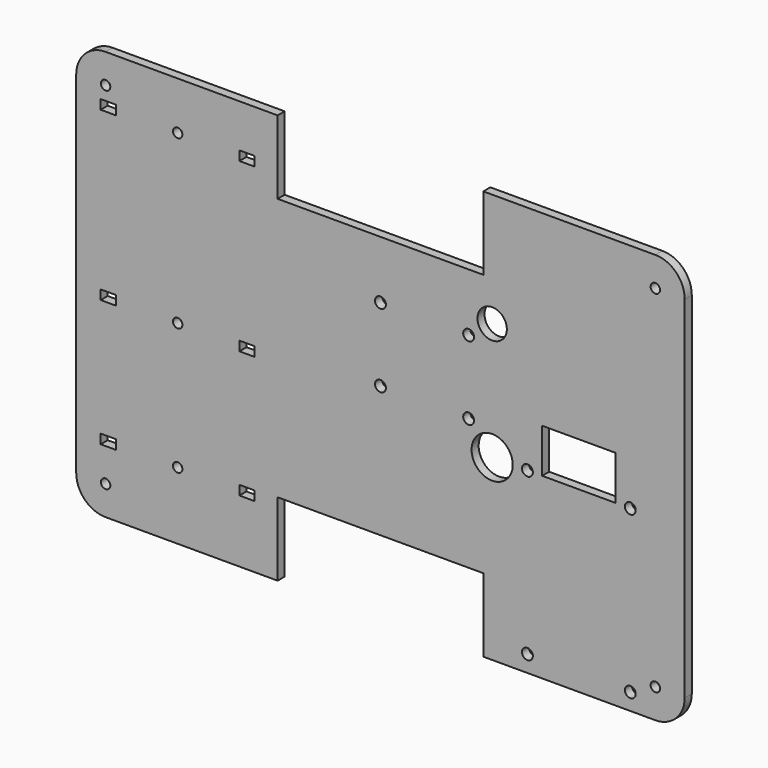
from build123d import *

# Parameters (mm, degrees)
SKETCH009_R             = 1.6
PAD006_DEPTH            = 3
SKETCH010_W             = 25
SKETCH010_H             = 70
POCKET003_DEPTH         = 3.001
SKETCH011_R             = 1.85
POCKET004_DEPTH         = 3.001
SKETCH012_R             = 1.6
SKETCH012_W             = 3.2
SKETCH012_H             = 5.2
POCKET005_DEPTH         = 3.001
SKETCH013_R             = 1.85
POCKET006_DEPTH         = 3.001
SKETCH017_R             = 7
SKETCH017_R_2           = 5
SKETCH017_W             = 15
SKETCH017_H             = 25
POCKET010_DEPTH         = 3.001
BODY003_PLACEMENT_ANGLE = 90


with BuildPart() as part:
    # Sketch009 → Pad006 (new body)
    with BuildSketch(Plane.XZ):
        with BuildLine():
            Line((-59.69, 103.52), (59.69, 103.52))
            ThreePointArc((69.69, 93.52), (66.761068, 100.591068), (59.69, 103.52))
            Line((69.69, 93.52), (69.69, -93.52))
            ThreePointArc((59.69, -103.52), (66.761068, -100.591068), (69.69, -93.52))
            Line((59.69, -103.52), (-59.69, -103.52))
            ThreePointArc((-69.69, -93.52), (-66.761068, -100.591068), (-59.69, -103.52))
            Line((-69.69, -93.52), (-69.69, 93.52))
            ThreePointArc((-59.69, 103.52), (-66.761068, 100.591068), (-69.69, 93.52))
        make_face()
        with Locations((-59.69, 93.52)):
            Circle(SKETCH009_R, mode=Mode.SUBTRACT)
        with Locations((59.69, 93.52)):
            Circle(SKETCH009_R, mode=Mode.SUBTRACT)
        with Locations((59.69, -93.52)):
            Circle(SKETCH009_R, mode=Mode.SUBTRACT)
        with Locations((-59.69, -93.52)):
            Circle(SKETCH009_R, mode=Mode.SUBTRACT)
    extrude(amount=PAD006_DEPTH)

    # Sketch010 → Pocket003 (cut, through all)
    with BuildSketch(Plane.XZ):
        with Locations((-57.19, 0)):
            Rectangle(SKETCH010_W, SKETCH010_H)
        with Locations((57.19, 0)):
            Rectangle(SKETCH010_W, SKETCH010_H)
    extrude(amount=POCKET003_DEPTH, mode=Mode.SUBTRACT)

    # Sketch011 → Pocket004 (cut, through all)
    with BuildSketch(Plane.XZ):
        with Locations((9, 85)):
            Circle(SKETCH011_R)
        with Locations((64, 85)):
            Circle(SKETCH011_R)
        with Locations((64, 50)):
            Circle(SKETCH011_R)
        with Locations((9, 50)):
            Circle(SKETCH011_R)
    extrude(amount=POCKET004_DEPTH, mode=Mode.SUBTRACT)

    # Sketch012 (on Face4 of Pocket004) → Pocket005 (cut, through all)
    with BuildSketch(Plane.XZ.offset(3)):
        with Locations((-53.4, -69)):
            Circle(SKETCH012_R)
        with Locations((3.6, -69)):
            Circle(SKETCH012_R)
        with Locations((46.8, -69)):
            Circle(SKETCH012_R)
        with Locations((-53.4, -45.4)):
            Rectangle(SKETCH012_W, SKETCH012_H)
        with Locations((3.6, -45.4)):
            Rectangle(SKETCH012_W, SKETCH012_H)
        with Locations((3.6, -92.6)):
            Rectangle(SKETCH012_W, SKETCH012_H)
        with Locations((-53.4, -92.6)):
            Rectangle(SKETCH012_W, SKETCH012_H)
        with Locations((46.8, -45.4)):
            Rectangle(SKETCH012_W, SKETCH012_H)
        with Locations((46.8, -92.6)):
            Rectangle(SKETCH012_W, SKETCH012_H)
    extrude(amount=-POCKET005_DEPTH, mode=Mode.SUBTRACT)

    # Sketch013 (on Face4 of Pocket005) → Pocket006 (cut, through all)
    with BuildSketch(Plane.XZ.offset(3)):
        with Locations((-25, 30)):
            Circle(SKETCH013_R)
        with Locations((0, 30)):
            Circle(SKETCH013_R)
        Circle(SKETCH013_R)
        with Locations((-25, 0)):
            Circle(SKETCH013_R)
    extrude(amount=-POCKET006_DEPTH, mode=Mode.SUBTRACT)

    # Sketch017 → Pocket010 (cut, through all)
    with BuildSketch(Plane(origin=(0, 0, 0), x_dir=(1, 0, 0), z_dir=(0, 1, 0))):
        with Locations((9, -38)):
            Circle(SKETCH017_R)
        with Locations((-31, -38)):
            Circle(SKETCH017_R_2)
        with Locations((1.5, -67.5)):
            Rectangle(SKETCH017_W, SKETCH017_H)
    extrude(amount=-POCKET010_DEPTH, mode=Mode.SUBTRACT)


with BuildPart() as part_1:
    # Body003 placement: moved
    add(part.part.moved(Location((69, -83, 5))).rotate(Axis((69, -83, 5), (0, 1, 0)), BODY003_PLACEMENT_ANGLE))


solid = part_1.part
